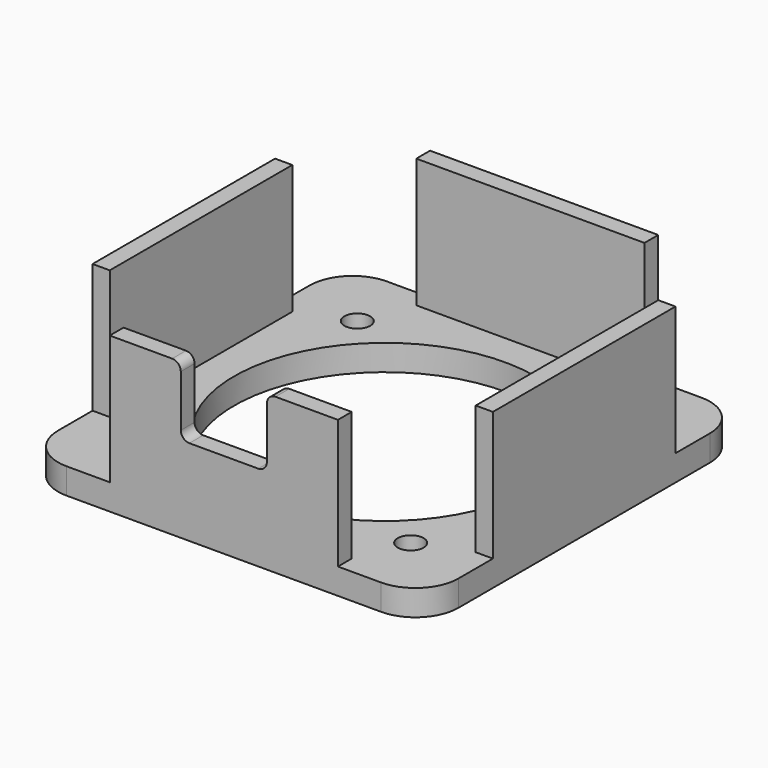
from build123d import *

# Parameters (mm, degrees)
F0_W      = 46.5
F0_H      = 46.5
F0_R      = 1.5
F0_R_2    = 17.5
F1_DEPTH  = 3
F2_W      = 42.5
F2_H      = 2
F3_DEPTH  = 15
F4_W      = 10
F4_H      = 15
F5_DEPTH  = 10
F6_W      = 10
F6_H      = 15
F7_DEPTH  = 10
F8_W      = 10
F8_H      = 15
F9_DEPTH  = 10
F10_W     = 10
F10_H     = 15
F11_DEPTH = 10
F12_R     = 5
F13_R     = 5
F14_R     = 5
F15_R     = 5
F16_W     = 10
F16_H     = 8
F17_DEPTH = 25
F18_R     = 1
F19_R     = 1


with BuildPart() as f1:
    # F0 (on Top) → F1 (new body)
    with BuildSketch(Plane.XY):
        with Locations((23.25, 23.25)):
            Rectangle(F0_W, F0_H)
        with Locations((7.75, 7.75)):
            Circle(F0_R, mode=Mode.SUBTRACT)
        with Locations((38.75, 7.75)):
            Circle(F0_R, mode=Mode.SUBTRACT)
        with Locations((7.75, 38.75)):
            Circle(F0_R, mode=Mode.SUBTRACT)
        with Locations((23.3, 23.3)):
            Circle(F0_R_2, mode=Mode.SUBTRACT)
        with Locations((38.75, 38.75)):
            Circle(F0_R, mode=Mode.SUBTRACT)
    extrude(amount=F1_DEPTH)

    # F2 (on face) → F3 (join)
    with BuildSketch(Plane.XY.offset(3)):
        Polygon((2, 46.5), (0, 46.5), (0, 0), (2, 0), (2, 2), (2, 44.5), align=None)
        with Locations((23.25, 45.5)):
            Rectangle(F2_W, F2_H)
        Polygon((46.5, 46.5), (44.5, 46.5), (44.5, 44.5), (44.5, 2), (44.5, 0), (46.5, 0), align=None)
        with Locations((23.25, 1)):
            Rectangle(F2_W, F2_H)
    extrude(amount=F3_DEPTH)

    # F4 (on face) → F5 (cut)
    with BuildSketch(Plane.XZ):
        with Locations((5, 10.5)):
            Rectangle(F4_W, F4_H)
    extrude(amount=-F5_DEPTH, mode=Mode.SUBTRACT)

    # F6 (on face) → F7 (cut)
    with BuildSketch(Plane(origin=(0, 46.5, 0), x_dir=(-1, 0, 0), z_dir=(0, 1, 0))):
        with Locations((-5, 10.5)):
            Rectangle(F6_W, F6_H)
    extrude(amount=-F7_DEPTH, mode=Mode.SUBTRACT)

    # F8 (on face) → F9 (cut)
    with BuildSketch(Plane(origin=(0, 46.5, 0), x_dir=(-1, 0, 0), z_dir=(0, 1, 0))):
        with Locations((-41.5, 10.5)):
            Rectangle(F8_W, F8_H)
    extrude(amount=-F9_DEPTH, mode=Mode.SUBTRACT)

    # F10 (on face) → F11 (cut)
    with BuildSketch(Plane.XZ):
        with Locations((41.5, 10.5)):
            Rectangle(F10_W, F10_H)
    extrude(amount=-F11_DEPTH, mode=Mode.SUBTRACT)

    # F12
    f12_edges = [f1.edges().sort_by_distance(p)[0] for p in [
        (46.5, 46.5, 1.5),
    ]]
    fillet(f12_edges, radius=F12_R)

    # F13
    f13_edges = [f1.edges().sort_by_distance(p)[0] for p in [
        (0, 46.5, 1.5),
    ]]
    fillet(f13_edges, radius=F13_R)

    # F14
    f14_edges = [f1.edges().sort_by_distance(p)[0] for p in [
        (46.5, 0, 1.5),
    ]]
    fillet(f14_edges, radius=F14_R)

    # F15
    f15_edges = [f1.edges().sort_by_distance(p)[0] for p in [
        (0, 0, 1.5),
    ]]
    fillet(f15_edges, radius=F15_R)

    # F16 (on face) → F17 (cut)
    with BuildSketch(Plane.XZ):
        with Locations((23.25, 14)):
            Rectangle(F16_W, F16_H)
    extrude(amount=-F17_DEPTH, mode=Mode.SUBTRACT)

    # F18
    f18_edges = [f1.edges().sort_by_distance(p)[0] for p in [
        (28.25, 1, 10),
        (18.25, 1, 10),
    ]]
    fillet(f18_edges, radius=F18_R)

    # F19
    f19_edges = [f1.edges().sort_by_distance(p)[0] for p in [
        (18.25, 1, 18),
        (28.25, 1, 18),
    ]]
    fillet(f19_edges, radius=F19_R)


solid = f1.part
